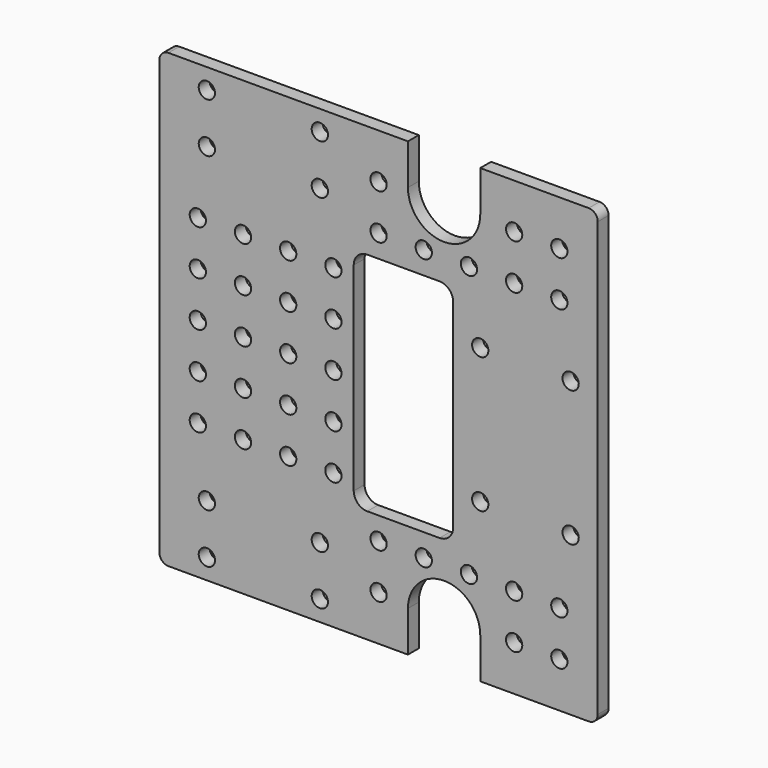
from build123d import *

# Parameters (mm, degrees)
CYLINDER038_R            = 1.8
CYLINDER038_DEPTH        = 100
ARRAY001_X_COUNT         = 2
ARRAY001_X_PITCH         = 25
ARRAY001_Y_COUNT         = 2
ARRAY001_Y_PITCH         = 11
ARRAY001_PLACEMENT_ANGLE = 90
ARRAY002_Z_COUNT         = 2
ARRAY002_Z_PITCH         = 80
CYLINDER011003_R         = 1.8
CYLINDER011003_DEPTH     = 10
ARRAY005_X_COUNT         = 2
ARRAY005_X_PITCH         = 30
ARRAY005_Y_COUNT         = 2
ARRAY005_Y_PITCH         = 20
ARRAY005_PITCH_ANGLE     = 90
ARRAY005_PLACEMENT_ANGLE = -90
BOX002_W                 = 22
BOX002_H                 = 10
BOX002_DEPTH             = 50
FILLET002_R              = 3
BOX003_W                 = 16
BOX003_H                 = 200
BOX003_DEPTH             = 50
CYLINDER_R               = 8
CYLINDER_DEPTH           = 200
SKETCH_W                 = 42.117567
SKETCH_H                 = 23.738708
SKETCH_W_2               = 40.471139
SKETCH_H_2               = 27.047569
SKETCH_W_3               = 29.381024
SKETCH_H_3               = 46.19655
EXTRUDE_DEPTH            = 50
CYLINDER011002_R         = 1.8
CYLINDER011002_DEPTH     = 100
ARRAY004_X_COUNT         = 9
ARRAY004_X_PITCH         = 10
ARRAY004_Z_COUNT         = 9
ARRAY004_Z_PITCH         = 10
BOX_W                    = 97
BOX_H                    = 3
BOX_DEPTH                = 100
FILLET_R                 = 2


with BuildPart() as bolt_hole_array_pair:
    # Cylinder038 → Cylinder038 (new body)
    with BuildSketch(Plane.XY.offset(-50)):
        Circle(CYLINDER038_R)
    extrude(amount=CYLINDER038_DEPTH)

    # Array001 X: bolt hole array pair ×2


with BuildPart() as bolt_hole_array_pair_1:
    add(bolt_hole_array_pair.part)
    with Locations(*[(i * ARRAY001_X_PITCH, 0, 0) for i in range(1, ARRAY001_X_COUNT)]):
        add(bolt_hole_array_pair.part)

    # Array001 Y: bolt hole array pair ×2


with BuildPart() as bolt_hole_array_pair_2:
    add(bolt_hole_array_pair_1.part)
    with Locations(*[(0, i * ARRAY001_Y_PITCH, 0) for i in range(1, ARRAY001_Y_COUNT)]):
        add(bolt_hole_array_pair_1.part)


with BuildPart() as bolt_hole_array_pair_3:
    # Array001 placement: moved
    add(bolt_hole_array_pair_2.part.moved(Location((-12.5, 0, 4.5))).rotate(Axis((-12.5, 0, 4.5), (1, 0, 0)), ARRAY001_PLACEMENT_ANGLE))

    # Array002 Z: bolt hole array pair ×2


with BuildPart() as bolt_hole_array_pair_4:
    add(bolt_hole_array_pair_3.part)
    with Locations(*[(0, 0, i * ARRAY002_Z_PITCH) for i in range(1, ARRAY002_Z_COUNT)]):
        add(bolt_hole_array_pair_3.part)


with BuildPart() as stepper_mount_hole_array:
    # Cylinder011003 → Cylinder011003 (new body)
    with BuildSketch(Plane.XY):
        Circle(CYLINDER011003_R)
    extrude(amount=CYLINDER011003_DEPTH)

    # Array005 X: stepper mount hole array ×2


with BuildPart() as stepper_mount_hole_array_1:
    add(stepper_mount_hole_array.part)
    with Locations(*[(i * ARRAY005_X_PITCH, 0, 0) for i in range(1, ARRAY005_X_COUNT)]):
        add(stepper_mount_hole_array.part)

    # Array005 Y: stepper mount hole array ×2


with BuildPart() as stepper_mount_hole_array_2:
    add(stepper_mount_hole_array_1.part)
    with Locations(*[(0, i * ARRAY005_Y_PITCH, 0) for i in range(1, ARRAY005_Y_COUNT)]):
        add(stepper_mount_hole_array_1.part)


with BuildPart() as stepper_mount_hole_array_3:
    # Array005 pitch: moved
    add(stepper_mount_hole_array_2.part.rotate(Axis((0, 0, 0), (0, 1, 0)), ARRAY005_PITCH_ANGLE))


with BuildPart() as stepper_mount_hole_array_4:
    # Array005 placement: moved
    add(stepper_mount_hole_array_3.part.moved(Location((48, -31, 65))).rotate(Axis((48, -31, 65), (0, 0, 1)), ARRAY005_PLACEMENT_ANGLE))


with BuildPart() as belt_hole_fillet:
    # Box002 → Box002 (new body)
    with BuildSketch(Plane(origin=(20, -40, 25), x_dir=(1, 0, 0), z_dir=(0, 0, 1))):
        with Locations((11, 5)):
            Rectangle(BOX002_W, BOX002_H)
    extrude(amount=BOX002_DEPTH)

    # Fillet002
    fillet002_edges = [belt_hole_fillet.edges().sort_by_distance(p)[0] for p in [
        (20, -35, 75),
        (20, -35, 25),
        (42, -35, 75),
        (42, -35, 25),
    ]]
    fillet(fillet002_edges, radius=FILLET002_R)


with BuildPart() as shaft_extension_cube:
    # Box003 → Box003 (new body)
    with BuildSketch(Plane(origin=(-8, -200, -50), x_dir=(1, 0, 0), z_dir=(0, 0, 1))):
        with Locations((8, 100)):
            Rectangle(BOX003_W, BOX003_H)
    extrude(amount=BOX003_DEPTH)


with BuildPart() as shaft_16mm_hole:
    # Cylinder → Cylinder (new body)
    with BuildSketch(Plane.XZ):
        Circle(CYLINDER_R)
    extrude(amount=CYLINDER_DEPTH)

    # Fusion002: union shaft extension cube
    add(shaft_extension_cube.part)


with BuildPart() as shaft_16mm_hole_1:
    # Fusion002 placement: moved
    add(shaft_16mm_hole.part.moved(Location((40, -19, 9))))


with BuildPart() as part_mirroring:
    # Part__Mirroring: instance of shaft 16mm hole
    add(shaft_16mm_hole_1.part.mirror(Plane(origin=(0, 0, 50), x_dir=(0, 1, 0), z_dir=(0, 0, 1))))


with BuildPart() as general_holes_extrude:
    # Sketch → Extrude (new body, symmetric)
    with BuildSketch(Plane.XZ):
        with Locations((-1.795196, 11.674214)):
            Rectangle(SKETCH_W, SKETCH_H)
        with Locations((-0.985158, 89.151065)):
            Rectangle(SKETCH_W_2, SKETCH_H_2)
        with Locations((57.017252, 49.302802)):
            Rectangle(SKETCH_W_3, SKETCH_H_3)
    extrude(amount=EXTRUDE_DEPTH, both=True)


with BuildPart() as hole_fusion:
    # Cylinder011002 → Cylinder011002 (new body)
    with BuildSketch(Plane.XZ.offset(-50)):
        Circle(CYLINDER011002_R)
    extrude(amount=CYLINDER011002_DEPTH)

    # Array004 X: hole fusion ×9


with BuildPart() as hole_fusion_1:
    add(hole_fusion.part)
    with Locations(*[(i * ARRAY004_X_PITCH, 0, 0) for i in range(1, ARRAY004_X_COUNT)]):
        add(hole_fusion.part)

    # Array004 Z: hole fusion ×9


with BuildPart() as hole_fusion_2:
    add(hole_fusion_1.part)
    with Locations(*[(0, 0, i * ARRAY004_Z_PITCH) for i in range(1, ARRAY004_Z_COUNT)]):
        add(hole_fusion_1.part)


with BuildPart() as hole_fusion_3:
    # Array004 placement: moved
    add(hole_fusion_2.part.moved(Location((-14.5, 0, 10))))

    # Cut: cut general holes extrude
    add(general_holes_extrude.part, mode=Mode.SUBTRACT)

    # Fusion: union bolt hole array pair, stepper mount hole array, belt hole fillet, Part__Mirroring, shaft 16mm hole
    add(bolt_hole_array_pair_4.part)
    add(stepper_mount_hole_array_4.part)
    add(belt_hole_fillet.part)
    add(part_mirroring.part)
    add(shaft_16mm_hole_1.part)


with BuildPart() as side_plate_cut:
    # Box → Box (new body)
    with BuildSketch(Plane(origin=(-23, -36, 0), x_dir=(1, 0, 0), z_dir=(0, 0, 1))):
        with Locations((48.5, 1.5)):
            Rectangle(BOX_W, BOX_H)
    extrude(amount=BOX_DEPTH)

    # Fillet
    fillet_edges = [side_plate_cut.edges().sort_by_distance(p)[0] for p in [
        (-23, -34.5, 100),
        (-23, -34.5, 0),
        (74, -34.5, 100),
        (74, -34.5, 0),
    ]]
    fillet(fillet_edges, radius=FILLET_R)

    # Cut023015009002: cut hole fusion
    add(hole_fusion_3.part, mode=Mode.SUBTRACT)


solid = side_plate_cut.part
